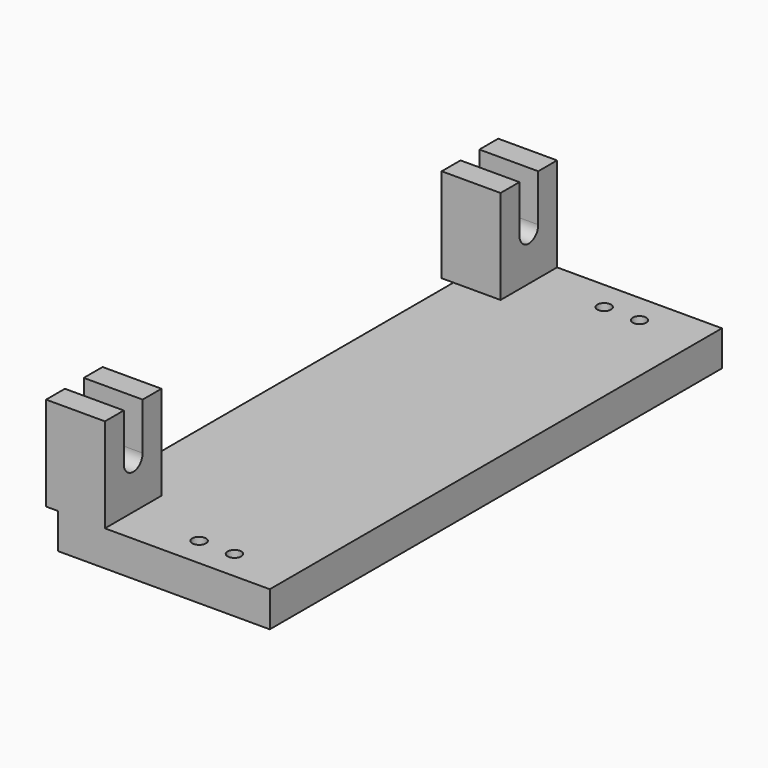
from build123d import *

# Parameters (mm, degrees)
SKETCH011_W   = 240
SKETCH011_H   = 15
PAD007_DEPTH  = 90
SKETCH012_R   = 2.9
HOLE004_DEPTH = 270.001
PAD008_DEPTH  = 25


with BuildPart() as part:
    # Sketch011 → Pad007 (new body)
    with BuildSketch(Plane.YZ.offset(5)):
        with Locations((95, 262.5)):
            Rectangle(SKETCH011_W, SKETCH011_H)
    extrude(amount=PAD007_DEPTH)

    # Sketch012 → Hole004 (cut, through all)
    with BuildSketch(Plane.XY):
        with Locations((55, 202.5)):
            Circle(SKETCH012_R)
        with Locations((70, 202.5)):
            Circle(SKETCH012_R)
        with Locations((55, -12.5)):
            Circle(SKETCH012_R)
        with Locations((70, -12.5)):
            Circle(SKETCH012_R)
    extrude(amount=HOLE004_DEPTH, mode=Mode.SUBTRACT)

    # Sketch013 → Pad008 (join)
    with BuildSketch(Plane.YZ):
        with BuildLine():
            Line((-25, 270), (-25, 310))
            Line((-15, 310), (-25, 310))
            Line((-15, 310), (-15, 290))
            ThreePointArc((-15, 290), (-10, 285), (-5, 290))
            Line((-5, 310), (-5, 290))
            Line((-5, 310), (5, 310))
            Line((5, 270), (5, 310))
            Line((-25, 270), (5, 270))
        make_face()
        with BuildLine():
            Line((185, 270), (185, 310))
            Line((195, 310), (185, 310))
            Line((195, 310), (195, 290))
            ThreePointArc((195, 290), (200, 285), (205, 290))
            Line((205, 310), (205, 290))
            Line((205, 310), (215, 310))
            Line((215, 270), (215, 310))
            Line((185, 270), (215, 270))
        make_face()
    extrude(amount=PAD008_DEPTH)


solid = part.part
